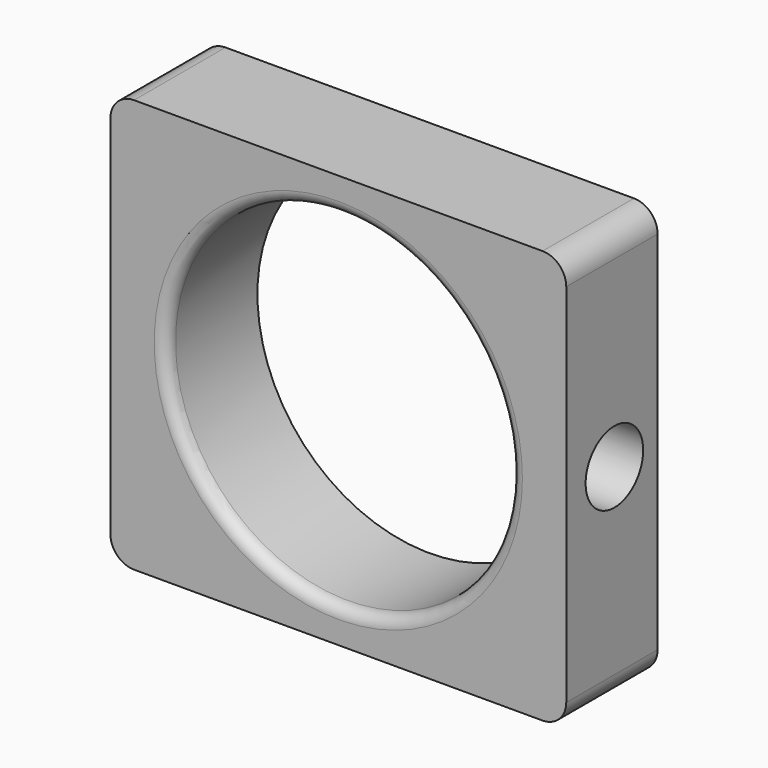
from build123d import *

# Parameters (mm, degrees)
F0_W     = 97.735152
F0_H     = 88.60518
F0_R     = 36.927875
F1_DEPTH = 24.485806
F2_R     = 5.08
F3_R     = 7.709535
F4_DEPTH = 25.4
F5_R     = 2.54


with BuildPart() as f1:
    # F0 (on Front) → F1 (new body)
    with BuildSketch(Plane.XZ):
        Rectangle(F0_W, F0_H)
        Circle(F0_R, mode=Mode.SUBTRACT)
    extrude(amount=F1_DEPTH)

    # F2
    f2_edges = [f1.edges().sort_by_distance(p)[0] for p in [
        (48.867576, -12.242903, 44.30259),
        (48.867576, -12.242903, -44.30259),
        (-48.867576, -12.242903, 44.30259),
        (-48.867576, -12.242903, -44.30259),
    ]]
    fillet(f2_edges, radius=F2_R)

    # F3 (on face) → F4 (cut)
    with BuildSketch(Plane.YZ.offset(48.867576)):
        with Locations((-11.589006, 0)):
            Circle(F3_R)
    extrude(amount=-F4_DEPTH, mode=Mode.SUBTRACT)

    # F5
    f5_edges = [f1.edges().sort_by_distance(p)[0] for p in [
        (-36.927875, -24.485806, 0),
    ]]
    fillet(f5_edges, radius=F5_R)


solid = f1.part
